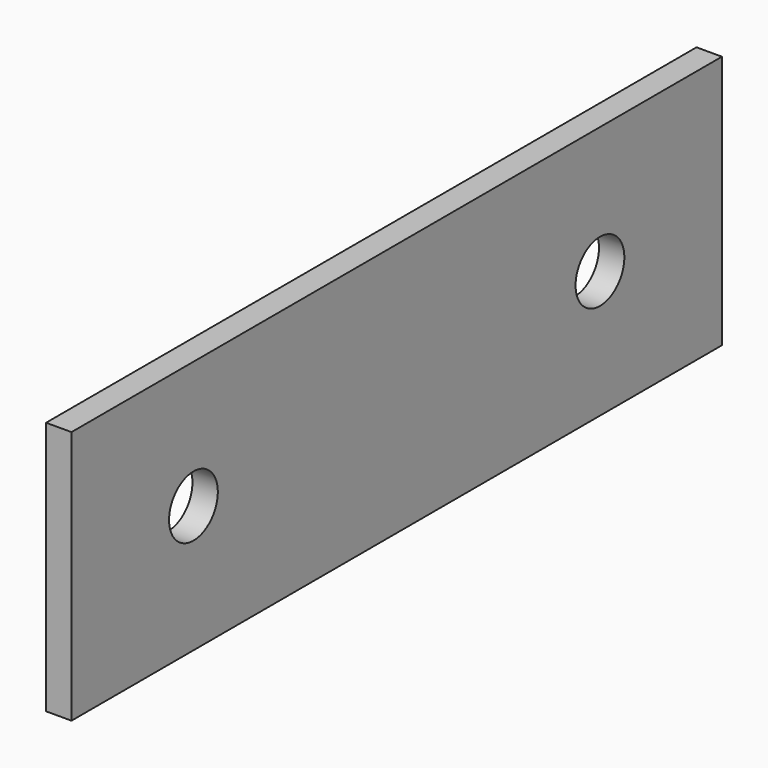
from build123d import *

# Parameters (mm, degrees)
F0_W     = 160
F0_H     = 50
F0_R     = 6
F1_DEPTH = 5


with BuildPart() as f1:
    # F0 (on Right) → F1 (new body)
    with BuildSketch(Plane.YZ):
        Rectangle(F0_W, F0_H)
        with Locations((-50, 0)):
            Circle(F0_R, mode=Mode.SUBTRACT)
        with Locations((50, 0)):
            Circle(F0_R, mode=Mode.SUBTRACT)
    extrude(amount=-F1_DEPTH)


solid = f1.part
